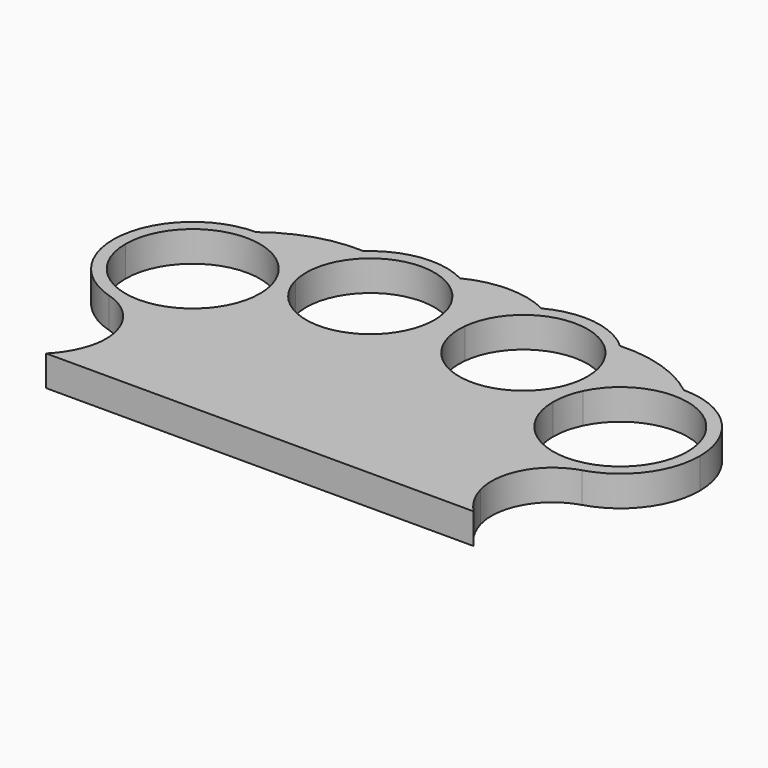
from build123d import *

# Parameters (mm, degrees)
F1_DEPTH = 5
F2_R     = 10


with BuildPart() as f1:
    # F0 (on Top) → F1 (new body)
    with BuildSketch(Plane.XY):
        with BuildLine():
            Line((-21.9215769197, 0), (-22, 0))
            ThreePointArc((-22, 0), (-25.8076118446, -9.1923881554), (-35, -13))
            ThreePointArc((-35, -13), (-31.470537173, -21.5), (-35, -30))
            Line((-35, -30), (0, -30))
            Line((0, -30), (0, 0))
            Line((0, 0), (-3.1361794935, 0))
            ThreePointArc((-3.1361794935, 0), (-12.5288782066, -4.2521390116), (-21.9215769197, 0))
        make_face()
        with BuildLine():
            Line((3.1361794935, 0), (0, 0))
            Line((0, 0), (0, -30))
            Line((0, -30), (35, -30))
            ThreePointArc((35, -30), (31.470537173, -21.5), (35, -13))
            ThreePointArc((35, -13), (25.8076118446, -9.1923881554), (22, 0))
            Line((22, 0), (21.9215769197, 0))
            ThreePointArc((21.9215769197, 0), (12.5288782066, -4.2521390116), (3.1361794935, 0))
        make_face()
        with BuildLine():
            Line((6.0309716887, 0), (3.1361794935, 0))
            ThreePointArc((3.1361794935, 0), (12.5288782066, -4.2521390116), (21.9215769197, 0))
            Line((21.9215769197, 0), (19.0267847245, 0))
            ThreePointArc((19.0267847245, 0), (12.5288782066, -2.2521390116), (6.0309716887, 0))
        make_face()
        with BuildLine():
            ThreePointArc((22, 0), (25.8076118446, -9.1923881554), (35, -13))
            ThreePointArc((35, -13), (44.1923881554, -9.1923881554), (48, 0))
            Line((48, 0), (46, 0))
            ThreePointArc((46, 0), (35, -11), (24, 0))
            Line((24, 0), (22, 0))
        make_face()
        with BuildLine():
            ThreePointArc((22.0003152946, 0.0905403813), (22.0000788239, 0.0452704651), (22, 0))
            Line((22, 0), (24, 0))
            ThreePointArc((24, 0), (24.2710977156, 2.427067319), (25.071028322, 4.7345032915))
            ThreePointArc((25.071028322, 4.7345032915), (24.8247656549, 4.828439536), (24.5781510368, 4.9214478657))
            ThreePointArc((24.5781510368, 4.9214478657), (23.5570084029, 2.3631057367), (22.0003152946, 0.0905403813))
        make_face()
        with BuildLine():
            Line((46, 0), (48, 0))
            ThreePointArc((48, 0), (44.1923881554, 9.1923881554), (35, 13))
            ThreePointArc((35, 13), (29.4968686843, 11.777756396), (25.0285322998, 8.3408531881))
            ThreePointArc((25.0285322998, 8.3408531881), (25.0287917296, 8.2943574099), (25.0288782066, 8.2478609884))
            ThreePointArc((25.0288782066, 8.2478609884), (24.9156838961, 6.5694555514), (24.5781510368, 4.9214478657))
            ThreePointArc((24.5781510368, 4.9214478657), (24.8247656549, 4.828439536), (25.071028322, 4.7345032915))
            ThreePointArc((25.071028322, 4.7345032915), (37.427067319, 10.7289022844), (46, 0))
        make_face()
        with BuildLine():
            ThreePointArc((4.0852755238, 17.4649957783), (1.3274413149, 13.7956363589), (0.0800875764, 9.3781759206))
            ThreePointArc((0.0800875764, 9.3781759206), (1.0834439902, 9.3698365837), (2.0865777909, 9.3471162034))
            ThreePointArc((2.0865777909, 9.3471162034), (13.0792624519, 18.7334261703), (23.0288782066, 8.2478609884))
            ThreePointArc((23.0288782066, 8.2478609884), (22.9436323297, 6.9126094932), (22.6892788627, 5.5990388902))
            ThreePointArc((22.6892788627, 5.5990388902), (22.9381719558, 5.5132371757), (23.1867405922, 5.4264999921))
            ThreePointArc((23.1867405922, 5.4264999921), (24.0105984044, 6.9450019849), (25.0285322998, 8.3408531881))
            ThreePointArc((25.0285322998, 8.3408531881), (23.9511150978, 13.3255085147), (20.9724808894, 17.4649957783))
            ThreePointArc((20.9724808894, 17.4649957783), (14.1100835277, 20.6474492773), (6.6686309887, 19.2890340486))
            ThreePointArc((6.6686309887, 19.2890340486), (5.3190370573, 18.4590406755), (4.0852755238, 17.4649957783))
        make_face()
        with BuildLine():
            ThreePointArc((0.0800875764, 9.3781759206), (0.4046589524, 5.2059360263), (2.0881463678, 1.3746434981))
            Line((2.0881463678, 1.3746434981), (3.758663462, 2.4743582965))
            ThreePointArc((3.758663462, 2.4743582965), (2.3264821641, 5.7657016479), (2.0865777909, 9.3471162034))
            ThreePointArc((2.0865777909, 9.3471162034), (1.0834439902, 9.3698365837), (0.0800875764, 9.3781759206))
        make_face()
        with BuildLine():
            ThreePointArc((2.0881463678, 1.3746434981), (2.5883725328, 0.6691838645), (3.1361794935, 0))
            Line((3.1361794935, 0), (6.0309716887, 0))
            ThreePointArc((6.0309716887, 0), (4.7952184024, 1.1457130011), (3.758663462, 2.4743582965))
            Line((3.758663462, 2.4743582965), (2.0881463678, 1.3746434981))
        make_face()
        with BuildLine():
            Line((19.0267847245, 0), (21.9215769197, 0))
            ThreePointArc((21.9215769197, 0), (21.961054746, 0.0451757129), (22.0003152946, 0.0905403813))
            ThreePointArc((22.0003152946, 0.0905403813), (22.3098989313, 2.8215837515), (23.1867405922, 5.4264999921))
            ThreePointArc((23.1867405922, 5.4264999921), (22.9381719558, 5.5132371757), (22.6892788627, 5.5990388902))
            ThreePointArc((22.6892788627, 5.5990388902), (21.3159202914, 2.500001265), (19.0267847245, 0))
        make_face()
        with BuildLine():
            ThreePointArc((23.1867405922, 5.4264999921), (22.3098989313, 2.8215837515), (22.0003152946, 0.0905403813))
            ThreePointArc((22.0003152946, 0.0905403813), (23.5570084029, 2.3631057367), (24.5781510368, 4.9214478657))
            ThreePointArc((24.5781510368, 4.9214478657), (23.8837808459, 5.1776519188), (23.1867405922, 5.4264999921))
        make_face()
        with BuildLine():
            ThreePointArc((23.1867405922, 5.4264999921), (23.8837808459, 5.1776519188), (24.5781510368, 4.9214478657))
            ThreePointArc((24.5781510368, 4.9214478657), (24.9156838961, 6.5694555514), (25.0288782066, 8.2478609884))
            ThreePointArc((25.0288782066, 8.2478609884), (25.0287917296, 8.2943574099), (25.0285322998, 8.3408531881))
            ThreePointArc((25.0285322998, 8.3408531881), (24.0105984044, 6.9450019849), (23.1867405922, 5.4264999921))
        make_face()
        with BuildLine():
            ThreePointArc((22.0003152946, 0.0905403813), (21.961054746, 0.0451757129), (21.9215769197, 0))
            Line((21.9215769197, 0), (22, 0))
            ThreePointArc((22, 0), (22.0000788239, 0.0452704651), (22.0003152946, 0.0905403813))
        make_face()
        with BuildLine():
            ThreePointArc((-0.0288782066, 8.2478609884), (-0.8314696493, 3.8409762562), (-3.1361794935, 0))
            Line((-3.1361794935, 0), (0, 0))
            Line((0, 0), (0, 9.3782217351))
            ThreePointArc((0, 9.3782217351), (-0.0400437948, 9.3782102815), (-0.0800875764, 9.3781759206))
            ThreePointArc((-0.0800875764, 9.3781759206), (-0.0416871118, 8.8135981725), (-0.0288782066, 8.2478609884))
        make_face()
        with BuildLine():
            Line((0, 9.3782217351), (0, 0))
            Line((0, 0), (2.0881463678, 1.3746434981))
            ThreePointArc((2.0881463678, 1.3746434981), (0.4046589524, 5.2059360263), (0.0800875764, 9.3781759206))
            ThreePointArc((0.0800875764, 9.3781759206), (0.0400437948, 9.3782102815), (0, 9.3782217351))
        make_face()
        with BuildLine():
            Line((2.0881463678, 1.3746434981), (0, 0))
            Line((0, 0), (3.1361794935, 0))
            ThreePointArc((3.1361794935, 0), (2.5883725328, 0.6691838645), (2.0881463678, 1.3746434981))
        make_face()
        with BuildLine():
            Line((-6.0309716887, 0), (-3.1361794935, 0))
            ThreePointArc((-3.1361794935, 0), (-0.8314696493, 3.8409762562), (-0.0288782066, 8.2478609884))
            ThreePointArc((-0.0288782066, 8.2478609884), (-0.0416871118, 8.8135981725), (-0.0800875764, 9.3781759206))
            ThreePointArc((-0.0800875764, 9.3781759206), (-1.0834439902, 9.3698365837), (-2.0865777909, 9.3471162034))
            ThreePointArc((-2.0865777909, 9.3471162034), (-2.0433130248, 8.7982452337), (-2.0288782066, 8.2478609884))
            ThreePointArc((-2.0288782066, 8.2478609884), (-3.0822381045, 3.6640862578), (-6.0309716887, 0))
        make_face()
        with BuildLine():
            Line((-19.0267847245, 0), (-21.9215769197, 0))
            ThreePointArc((-21.9215769197, 0), (-12.5288782066, -4.2521390116), (-3.1361794935, 0))
            Line((-3.1361794935, 0), (-6.0309716887, 0))
            ThreePointArc((-6.0309716887, 0), (-12.5288782066, -2.2521390116), (-19.0267847245, 0))
        make_face()
        with BuildLine():
            ThreePointArc((-25.0285322998, 8.3408531881), (-24.0105984044, 6.9450019849), (-23.1867405922, 5.4264999921))
            ThreePointArc((-23.1867405922, 5.4264999921), (-22.9381719558, 5.5132371757), (-22.6892788627, 5.5990388902))
            ThreePointArc((-22.6892788627, 5.5990388902), (-14.4082099376, 18.5783068764), (-2.0865777909, 9.3471162034))
            ThreePointArc((-2.0865777909, 9.3471162034), (-1.0834439902, 9.3698365837), (-0.0800875764, 9.3781759206))
            ThreePointArc((-0.0800875764, 9.3781759206), (-1.3274413149, 13.7956363589), (-4.0852755238, 17.4649957783))
            ThreePointArc((-4.0852755238, 17.4649957783), (-5.3248760335, 18.4631609199), (-6.6812594387, 19.295727513))
            ThreePointArc((-6.6812594387, 19.295727513), (-14.1171721947, 20.6465432655), (-20.9724808894, 17.4649957783))
            ThreePointArc((-20.9724808894, 17.4649957783), (-23.9511150978, 13.3255085147), (-25.0285322998, 8.3408531881))
        make_face()
        with BuildLine():
            ThreePointArc((-22.0003152946, 0.0905403813), (-21.961054746, 0.0451757129), (-21.9215769197, 0))
            Line((-21.9215769197, 0), (-19.0267847245, 0))
            ThreePointArc((-19.0267847245, 0), (-21.3159202914, 2.500001265), (-22.6892788627, 5.5990388902))
            ThreePointArc((-22.6892788627, 5.5990388902), (-22.9381719558, 5.5132371757), (-23.1867405922, 5.4264999921))
            ThreePointArc((-23.1867405922, 5.4264999921), (-22.3098989313, 2.8215837515), (-22.0003152946, 0.0905403813))
        make_face()
        with BuildLine():
            ThreePointArc((-24.5781510368, 4.9214478657), (-23.5570084029, 2.3631057367), (-22.0003152946, 0.0905403813))
            ThreePointArc((-22.0003152946, 0.0905403813), (-22.3098989313, 2.8215837515), (-23.1867405922, 5.4264999921))
            ThreePointArc((-23.1867405922, 5.4264999921), (-23.8837808459, 5.1776519188), (-24.5781510368, 4.9214478657))
        make_face()
        with BuildLine():
            ThreePointArc((-24.5781510368, 4.9214478657), (-23.8837808459, 5.1776519188), (-23.1867405922, 5.4264999921))
            ThreePointArc((-23.1867405922, 5.4264999921), (-24.0105984044, 6.9450019849), (-25.0285322998, 8.3408531881))
            ThreePointArc((-25.0285322998, 8.3408531881), (-24.9218413899, 6.6155425339), (-24.5781510368, 4.9214478657))
        make_face()
        with BuildLine():
            ThreePointArc((-46, 0), (-37.427067319, 10.7289022844), (-25.071028322, 4.7345032915))
            ThreePointArc((-25.071028322, 4.7345032915), (-24.8247656549, 4.828439536), (-24.5781510368, 4.9214478657))
            ThreePointArc((-24.5781510368, 4.9214478657), (-24.9218413899, 6.6155425339), (-25.0285322998, 8.3408531881))
            ThreePointArc((-25.0285322998, 8.3408531881), (-29.4968686843, 11.777756396), (-35, 13))
            ThreePointArc((-35, 13), (-44.1923881554, 9.1923881554), (-48, 0))
            Line((-48, 0), (-46, 0))
        make_face()
        with BuildLine():
            ThreePointArc((-35, -13), (-25.8076118446, -9.1923881554), (-22, 0))
            Line((-22, 0), (-24, 0))
            ThreePointArc((-24, 0), (-35, -11), (-46, 0))
            Line((-46, 0), (-48, 0))
            ThreePointArc((-48, 0), (-44.1923881554, -9.1923881554), (-35, -13))
        make_face()
        with BuildLine():
            Line((-24, 0), (-22, 0))
            ThreePointArc((-22, 0), (-22.0000788239, 0.0452704651), (-22.0003152946, 0.0905403813))
            ThreePointArc((-22.0003152946, 0.0905403813), (-23.5570084029, 2.3631057367), (-24.5781510368, 4.9214478657))
            ThreePointArc((-24.5781510368, 4.9214478657), (-24.8247656549, 4.828439536), (-25.071028322, 4.7345032915))
            ThreePointArc((-25.071028322, 4.7345032915), (-24.2710977156, 2.427067319), (-24, 0))
        make_face()
        with BuildLine():
            ThreePointArc((-0.0800875764, 9.3781759206), (-0.0400437948, 9.3782102815), (0, 9.3782217351))
            ThreePointArc((0, 9.3782217351), (0.0400437948, 9.3782102815), (0.0800875764, 9.3781759206))
            ThreePointArc((0.0800875764, 9.3781759206), (1.3274413149, 13.7956363589), (4.0852755238, 17.4649957783))
            ThreePointArc((4.0852755238, 17.4649957783), (0, 18.0320292124), (-4.0852755238, 17.4649957783))
            ThreePointArc((-4.0852755238, 17.4649957783), (-1.3274413149, 13.7956363589), (-0.0800875764, 9.3781759206))
        make_face()
        with BuildLine():
            ThreePointArc((35, 13), (28.3903016202, 16.5019225745), (20.9724808894, 17.4649957783))
            ThreePointArc((20.9724808894, 17.4649957783), (23.9511150978, 13.3255085147), (25.0285322998, 8.3408531881))
            ThreePointArc((25.0285322998, 8.3408531881), (29.4968686843, 11.777756396), (35, 13))
        make_face()
        with BuildLine():
            ThreePointArc((-20.9724808894, 17.4649957783), (-28.3903016202, 16.5019225745), (-35, 13))
            ThreePointArc((-35, 13), (-29.4968686843, 11.777756396), (-25.0285322998, 8.3408531881))
            ThreePointArc((-25.0285322998, 8.3408531881), (-23.9511150978, 13.3255085147), (-20.9724808894, 17.4649957783))
        make_face()
        with BuildLine():
            ThreePointArc((-6.6812594387, 19.295727513), (-5.3248760335, 18.4631609199), (-4.0852755238, 17.4649957783))
            ThreePointArc((-4.0852755238, 17.4649957783), (0, 18.0320292124), (4.0852755238, 17.4649957783))
            ThreePointArc((4.0852755238, 17.4649957783), (5.3190370573, 18.4590406755), (6.6686309887, 19.2890340486))
            ThreePointArc((6.6686309887, 19.2890340486), (-0.0055285439, 20.859395242), (-6.6812594387, 19.295727513))
        make_face()
    extrude(amount=F1_DEPTH)

    # F2
    f2_edges = [f1.edges().sort_by_distance(p)[0] for p in [
        (-35, -13, 2.5),
        (35, -13, 2.5),
    ]]
    fillet(f2_edges, radius=F2_R)


solid = f1.part
